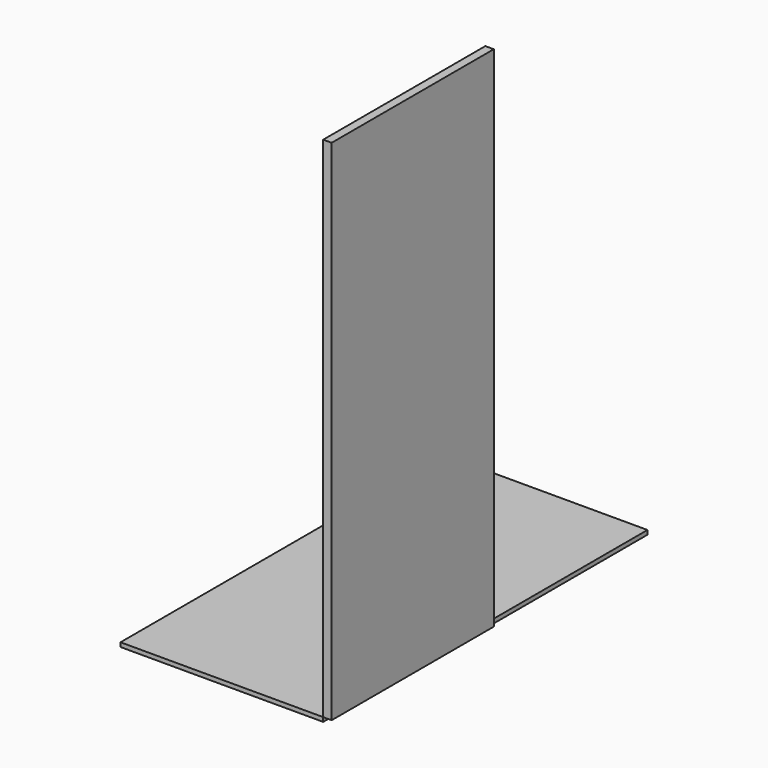
from build123d import *

# Parameters (mm, degrees)
F0_W     = 1200
F0_H     = 2400
F1_DEPTH = 25
F2_W     = 1200
F2_H     = 3010
F3_DEPTH = 50


with BuildPart() as f1:
    # F0 (on Top) → F1 (new body)
    with BuildSketch(Plane.XY):
        Rectangle(F0_W, F0_H)
    extrude(amount=F1_DEPTH)


with BuildPart() as f3:
    # F2 (on face) → F3 (new body)
    with BuildSketch(Plane.YZ.offset(600)):
        with Locations((-600, 1530)):
            Rectangle(F2_W, F2_H)
    extrude(amount=F3_DEPTH)


solid = Compound([f1.part, f3.part])
